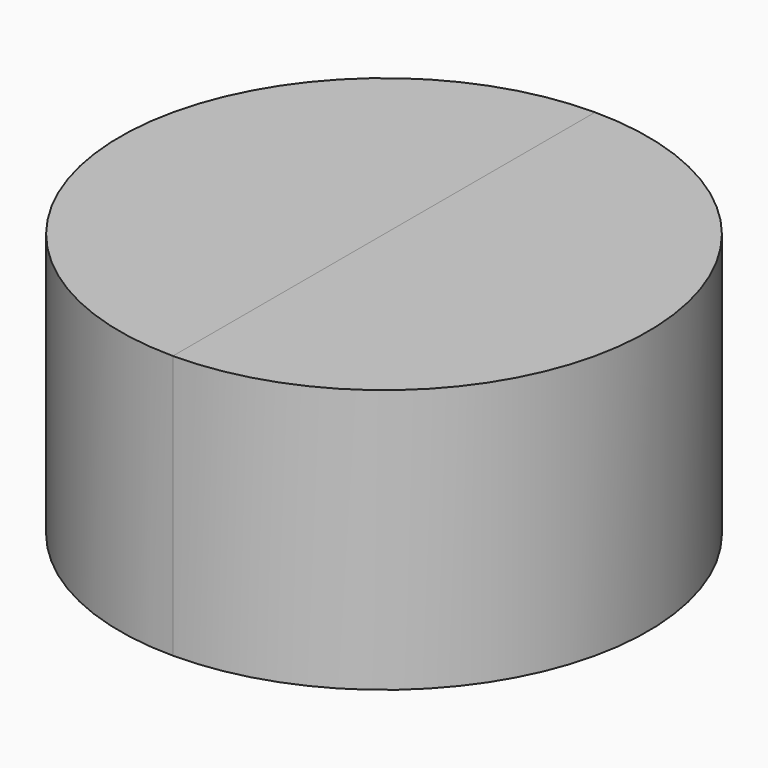
from build123d import *

# Parameters (mm, degrees)
PAD_DEPTH    = 100
PAD001_DEPTH = 100


with BuildPart() as body1:
    # Sketch → Pad (new body, symmetric)
    with BuildSketch(Plane.XY):
        with BuildLine():
            Line((0, 200), (0, -200))
            ThreePointArc((0, 200), (-200, 0), (0, -200))
        make_face()
    extrude(amount=PAD_DEPTH, both=True)


with BuildPart() as body2:
    # Sketch001 → Pad001 (new body, symmetric)
    with BuildSketch(Plane.XY):
        with BuildLine():
            Line((0, 200), (0, -200))
            ThreePointArc((0, -200), (200.004055, 0), (0, 200))
        make_face()
    extrude(amount=PAD001_DEPTH, both=True)


solid = Compound([body1.part, body2.part])
